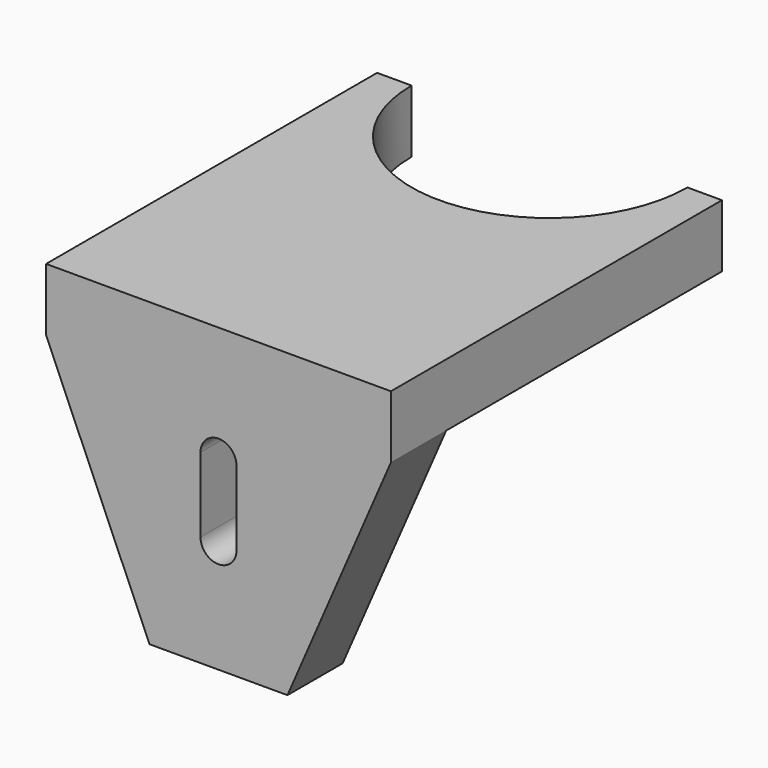
from build123d import *

# Parameters (mm, degrees)
F1_DEPTH = 9.1
F3_DEPTH = 10


with BuildPart() as f1:
    # F0 (on Top) → F1 (new body)
    with BuildSketch(Plane.XY):
        with BuildLine():
            Line((-45.512, 26.294801), (-50.512, 26.294801))
            Line((-50.512, 26.294801), (-50.512, -33.705199))
            Line((-50.512, -33.705199), (-0.512, -33.705199))
            Line((-0.512, -33.705199), (-0.512, 26.294801))
            Line((-0.512, 26.294801), (-5.512, 26.294801))
            ThreePointArc((-5.512, 26.294801), (-25.512, 6.294801), (-45.512, 26.294801))
        make_face()
    extrude(amount=F1_DEPTH)

    # F2 (on face) → F3 (join)
    with BuildSketch(Plane.XZ.offset(33.705199)):
        Polygon((-0.512, 0), (-50.512, 0), (-35.512, -34.577517), (-15.512, -34.577517), align=None)
        with BuildLine():
            ThreePointArc((-28.124191, -7.687931), (-25.512, -5.075741), (-22.89981, -7.687931))
            Line((-22.89981, -7.687931), (-22.89981, -18.501936))
            ThreePointArc((-22.89981, -18.501936), (-25.512, -21.114126), (-28.124191, -18.501936))
            Line((-28.124191, -18.501936), (-28.124191, -7.687931))
        make_face(mode=Mode.SUBTRACT)
    extrude(amount=-F3_DEPTH)


solid = f1.part
